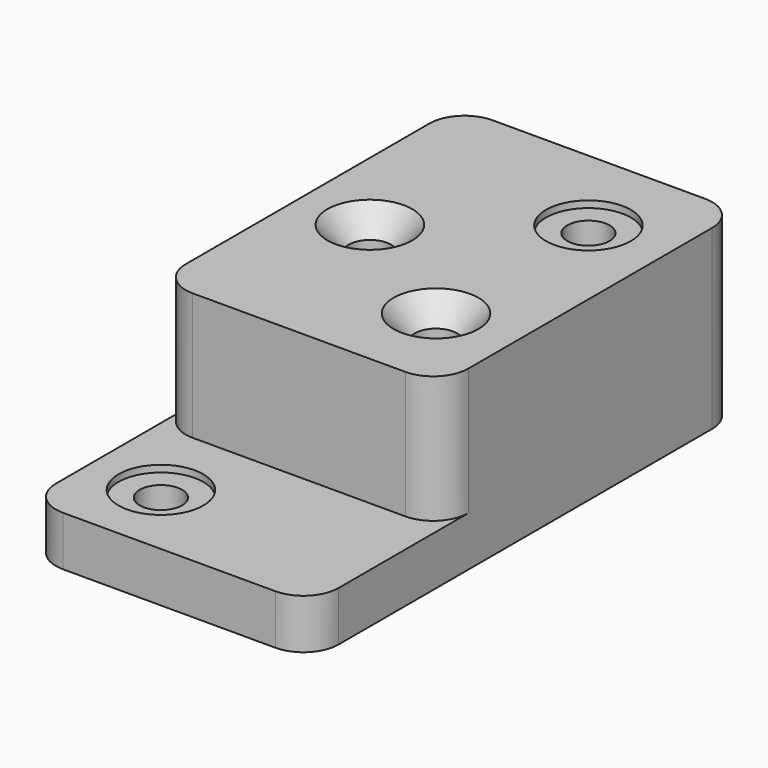
from build123d import *

# Parameters (mm, degrees)
F0_W           = 127
F0_H           = 79.502
F1_DEPTH       = 241.3
F2_W           = 72.898
F2_H           = 57.15
F3_DEPTH       = 127.001
F6_D           = 19.05
F6_CSINK_D     = 38.1
F6_CSINK_ANGLE = 82
F7_D           = 19.05
F7_CBORE_D     = 38.1
F7_CBORE_DEPTH = 3.048
F9_D           = 19.05
F9_CBORE_D     = 38.1
F9_CBORE_DEPTH = 3.048
F10_R          = 15.748


with BuildPart() as f1:
    # F0 (on Front) → F1 (new body)
    with BuildSketch(Plane.XZ):
        with Locations((0, 39.751)):
            Rectangle(F0_W, F0_H)
    extrude(amount=-F1_DEPTH)

    # F2 (on face) → F3 (cut, through all)
    with BuildSketch(Plane.YZ.offset(63.5)):
        with Locations((36.449, 50.927)):
            Rectangle(F2_W, F2_H)
    extrude(amount=-F3_DEPTH, mode=Mode.SUBTRACT)

    # F6 (through all)
    with Locations(Plane.XY.offset(79.502)):
        with Locations((-31.75, 152.4), (28.448, 114.3)):
            CounterSinkHole(F6_D / 2, F6_CSINK_D / 2, counter_sink_angle=F6_CSINK_ANGLE)

    # F7 (through all)
    with Locations(Plane.XY.offset(22.352)):
        with Locations((-31.75, 35.052)):
            CounterBoreHole(F7_D / 2, F7_CBORE_D / 2, F7_CBORE_DEPTH)

    # F9 (through all)
    with Locations(Plane.XY.offset(79.502)):
        with Locations((28.448, 199.898)):
            CounterBoreHole(F9_D / 2, F9_CBORE_D / 2, F9_CBORE_DEPTH)

    # F10
    f10_edges = [f1.edges().sort_by_distance(p)[0] for p in [
        (63.5, 72.898, 50.927),
        (-63.5, 72.898, 50.927),
        (-63.5, 0, 11.176),
        (63.5, 0, 11.176),
        (63.5, 241.3, 39.751),
        (-63.5, 241.3, 39.751),
    ]]
    fillet(f10_edges, radius=F10_R)


solid = f1.part
